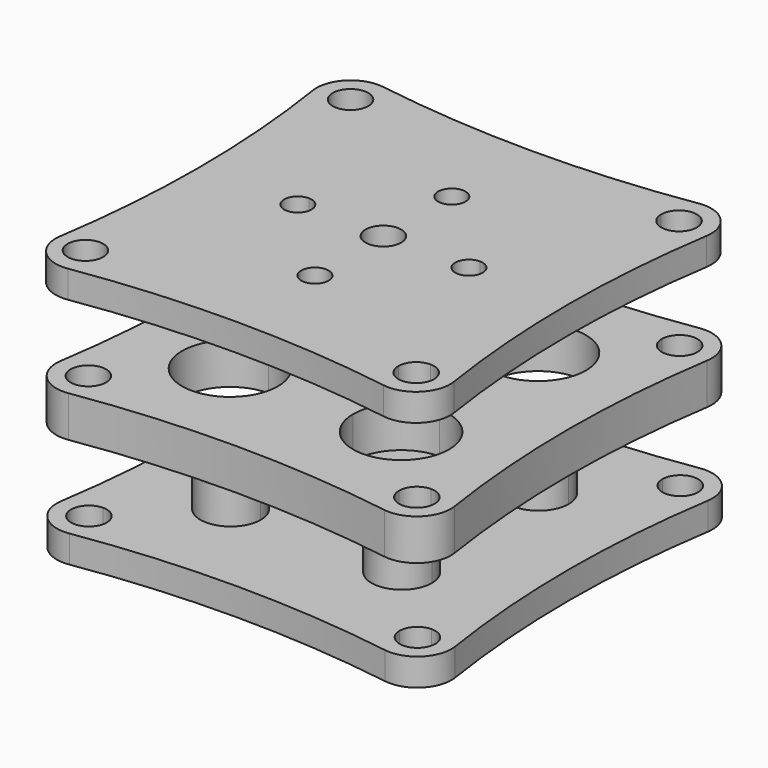
from build123d import *

# Parameters (mm, degrees)
F0_R       = 2.6
F1_DEPTH   = 4
F2_DEPTH   = 10
F3_R       = 2.6
F4_DEPTH   = 4
F5_R       = 2.6
F6_DEPTH   = 6
F7_R       = 5
F7_2_R     = 5
F8_R       = 5
F9_SIZE2   = 0.8
F9_SIZE    = 2.6
F9_2_SIZE2 = 0.8
F9_2_SIZE  = 2.6
F9_3_SIZE2 = 0.8
F9_3_SIZE  = 2.6
F9_4_SIZE2 = 0.8
F9_4_SIZE  = 2.6


with BuildPart() as f1:
    # F0 (on Top) → F1 (new body)
    with BuildSketch(Plane.XY):
        with BuildLine():
            ThreePointArc((-30, -30), (0, -27), (30, -30))
            ThreePointArc((30, -30), (27, 0), (30, 30))
            ThreePointArc((30, 30), (0, 27), (-30, 30))
            ThreePointArc((-30, 30), (-27, 0), (-30, -30))
        make_face()
        with BuildLine():
            ThreePointArc((26.6, 24), (25.8384776311, 22.1615223689), (24, 21.4))
            Line((24, 21.4), (24, -21.4))
            ThreePointArc((24, -21.4), (25.8384776311, -22.1615223689), (26.6, -24))
            ThreePointArc((26.6, -24), (24, -26.6), (21.4, -24))
            Line((21.4, -24), (-21.4, -24))
            ThreePointArc((-21.4, -24), (-25.8384776311, -25.8384776311), (-24, -21.4))
            Line((-24, -21.4), (-24, 21.4))
            ThreePointArc((-24, 21.4), (-25.8384776311, 25.8384776311), (-21.4, 24))
            Line((-21.4, 24), (21.4, 24))
            ThreePointArc((21.4, 24), (24, 26.6), (26.6, 24))
        make_face(mode=Mode.SUBTRACT)
        with BuildLine():
            Line((24, -21.4), (24, 21.4))
            ThreePointArc((24, 21.4), (22.1615223689, 22.1615223689), (21.4, 24))
            Line((21.4, 24), (-21.4, 24))
            ThreePointArc((-21.4, 24), (-22.1615223689, 22.1615223689), (-24, 21.4))
            Line((-24, 21.4), (-24, -21.4))
            ThreePointArc((-24, -21.4), (-22.1615223689, -22.1615223689), (-21.4, -24))
            Line((-21.4, -24), (21.4, -24))
            ThreePointArc((21.4, -24), (22.1615223689, -22.1615223689), (24, -21.4))
        make_face()
        with BuildLine():
            Line((5.5, -12.5), (-5.5, -12.5))
            ThreePointArc((-5.5, -12.5), (-17.4497474683, -17.4497474683), (-12.5, -5.5))
            Line((-12.5, -5.5), (-12.5, 5.5))
            ThreePointArc((-12.5, 5.5), (-17.4497474683, 17.4497474683), (-5.5, 12.5))
            Line((-5.5, 12.5), (5.5, 12.5))
            ThreePointArc((5.5, 12.5), (12.5, 19.5), (19.5, 12.5))
            ThreePointArc((19.5, 12.5), (17.4497474683, 7.5502525317), (12.5, 5.5))
            Line((12.5, 5.5), (12.5, -5.5))
            ThreePointArc((12.5, -5.5), (17.4497474683, -7.5502525317), (19.5, -12.5))
            ThreePointArc((19.5, -12.5), (12.5, -19.5), (5.5, -12.5))
        make_face(mode=Mode.SUBTRACT)
        with BuildLine():
            Line((12.5, 8.1), (12.5, 5.5))
            ThreePointArc((12.5, 5.5), (17.4497474683, 7.5502525317), (19.5, 12.5))
            ThreePointArc((19.5, 12.5), (12.5, 19.5), (5.5, 12.5))
            Line((5.5, 12.5), (8.1, 12.5))
            ThreePointArc((8.1, 12.5), (12.5, 16.9), (16.9, 12.5))
            ThreePointArc((16.9, 12.5), (15.6112698372, 9.3887301628), (12.5, 8.1))
        make_face()
        with BuildLine():
            Line((8.1, -12.5), (5.5, -12.5))
            ThreePointArc((5.5, -12.5), (12.5, -19.5), (19.5, -12.5))
            ThreePointArc((19.5, -12.5), (17.4497474683, -7.5502525317), (12.5, -5.5))
            Line((12.5, -5.5), (12.5, -8.1))
            ThreePointArc((12.5, -8.1), (15.6112698372, -9.3887301628), (16.9, -12.5))
            ThreePointArc((16.9, -12.5), (12.5, -16.9), (8.1, -12.5))
        make_face()
        with BuildLine():
            ThreePointArc((-12.5, -5.5), (-17.4497474683, -17.4497474683), (-5.5, -12.5))
            Line((-5.5, -12.5), (-8.1, -12.5))
            ThreePointArc((-8.1, -12.5), (-15.6112698372, -15.6112698372), (-12.5, -8.1))
            Line((-12.5, -8.1), (-12.5, -5.5))
        make_face()
        with BuildLine():
            ThreePointArc((-5.5, 12.5), (-17.4497474683, 17.4497474683), (-12.5, 5.5))
            Line((-12.5, 5.5), (-12.5, 8.1))
            ThreePointArc((-12.5, 8.1), (-15.6112698372, 15.6112698372), (-8.1, 12.5))
            Line((-8.1, 12.5), (-5.5, 12.5))
        make_face()
        with BuildLine():
            ThreePointArc((-12.5, -5.5), (-7.5502525317, -7.5502525317), (-5.5, -12.5))
            Line((-5.5, -12.5), (5.5, -12.5))
            ThreePointArc((5.5, -12.5), (7.5502525317, -7.5502525317), (12.5, -5.5))
            Line((12.5, -5.5), (12.5, 5.5))
            ThreePointArc((12.5, 5.5), (7.5502525317, 7.5502525317), (5.5, 12.5))
            Line((5.5, 12.5), (-5.5, 12.5))
            ThreePointArc((-5.5, 12.5), (-7.5502525317, 7.5502525317), (-12.5, 5.5))
            Line((-12.5, 5.5), (-12.5, -5.5))
        make_face()
        Circle(F0_R, mode=Mode.SUBTRACT)
        with BuildLine():
            ThreePointArc((12.5, -5.5), (7.5502525317, -7.5502525317), (5.5, -12.5))
            Line((5.5, -12.5), (8.1, -12.5))
            ThreePointArc((8.1, -12.5), (9.3887301628, -9.3887301628), (12.5, -8.1))
            Line((12.5, -8.1), (12.5, -5.5))
        make_face()
        with BuildLine():
            Line((-8.1, -12.5), (-5.5, -12.5))
            ThreePointArc((-5.5, -12.5), (-7.5502525317, -7.5502525317), (-12.5, -5.5))
            Line((-12.5, -5.5), (-12.5, -8.1))
            ThreePointArc((-12.5, -8.1), (-9.3887301628, -9.3887301628), (-8.1, -12.5))
        make_face()
        with BuildLine():
            ThreePointArc((5.5, 12.5), (7.5502525317, 7.5502525317), (12.5, 5.5))
            Line((12.5, 5.5), (12.5, 8.1))
            ThreePointArc((12.5, 8.1), (9.3887301628, 9.3887301628), (8.1, 12.5))
            Line((8.1, 12.5), (5.5, 12.5))
        make_face()
        with BuildLine():
            Line((-12.5, 8.1), (-12.5, 5.5))
            ThreePointArc((-12.5, 5.5), (-7.5502525317, 7.5502525317), (-5.5, 12.5))
            Line((-5.5, 12.5), (-8.1, 12.5))
            ThreePointArc((-8.1, 12.5), (-9.3887301628, 9.3887301628), (-12.5, 8.1))
        make_face()
    extrude(amount=F1_DEPTH)

    # F0 (on Top) → F2 (join)
    with BuildSketch(Plane.XY):
        with BuildLine():
            Line((-12.5, 12.5), (-12.5, 8.1))
            ThreePointArc((-12.5, 8.1), (-9.3887301628, 9.3887301628), (-8.1, 12.5))
            Line((-8.1, 12.5), (-12.5, 12.5))
        make_face()
        with BuildLine():
            ThreePointArc((-8.1, 12.5), (-15.6112698372, 15.6112698372), (-12.5, 8.1))
            Line((-12.5, 8.1), (-12.5, 12.5))
            Line((-12.5, 12.5), (-8.1, 12.5))
        make_face()
        with BuildLine():
            ThreePointArc((8.1, 12.5), (9.3887301628, 9.3887301628), (12.5, 8.1))
            Line((12.5, 8.1), (12.5, 12.5))
            Line((12.5, 12.5), (8.1, 12.5))
        make_face()
        with BuildLine():
            Line((12.5, 12.5), (12.5, 8.1))
            ThreePointArc((12.5, 8.1), (15.6112698372, 9.3887301628), (16.9, 12.5))
            ThreePointArc((16.9, 12.5), (12.5, 16.9), (8.1, 12.5))
            Line((8.1, 12.5), (12.5, 12.5))
        make_face()
        with BuildLine():
            Line((12.5, -12.5), (8.1, -12.5))
            ThreePointArc((8.1, -12.5), (12.5, -16.9), (16.9, -12.5))
            ThreePointArc((16.9, -12.5), (15.6112698372, -9.3887301628), (12.5, -8.1))
            Line((12.5, -8.1), (12.5, -12.5))
        make_face()
        with BuildLine():
            ThreePointArc((12.5, -8.1), (9.3887301628, -9.3887301628), (8.1, -12.5))
            Line((8.1, -12.5), (12.5, -12.5))
            Line((12.5, -12.5), (12.5, -8.1))
        make_face()
        with BuildLine():
            Line((-12.5, -12.5), (-8.1, -12.5))
            ThreePointArc((-8.1, -12.5), (-9.3887301628, -9.3887301628), (-12.5, -8.1))
            Line((-12.5, -8.1), (-12.5, -12.5))
        make_face()
        with BuildLine():
            ThreePointArc((-12.5, -8.1), (-15.6112698372, -15.6112698372), (-8.1, -12.5))
            Line((-8.1, -12.5), (-12.5, -12.5))
            Line((-12.5, -12.5), (-12.5, -8.1))
        make_face()
    extrude(amount=F2_DEPTH)

    # F7
    f7_edges = [f1.edges().sort_by_distance(p)[0] for p in [
        (30, -30, 2),
        (-30, -30, 2),
        (30, 30, 2),
        (-30, 30, 2),
    ]]
    fillet(f7_edges, radius=F7_R)

    # F9
    f9_edges = [f1.edges().sort_by_distance(p)[0] for p in [
        (-16.9, 12.5, 10),
    ]]
    f9_side = f1.faces().sort_by_distance((-12.5, 12.5, 10))[0]
    chamfer(f9_edges, length=F9_SIZE, length2=F9_SIZE2, reference=f9_side)

    # F9#2
    f9_2_edges = [f1.edges().sort_by_distance(p)[0] for p in [
        (-12.5, -16.9, 10),
    ]]
    f9_2_side = f1.faces().sort_by_distance((-12.5, -12.5, 10))[0]
    chamfer(f9_2_edges, length=F9_2_SIZE, length2=F9_2_SIZE2, reference=f9_2_side)

    # F9#3
    f9_3_edges = [f1.edges().sort_by_distance(p)[0] for p in [
        (12.5, -16.9, 10),
    ]]
    f9_3_side = f1.faces().sort_by_distance((12.5, -12.5, 10))[0]
    chamfer(f9_3_edges, length=F9_3_SIZE, length2=F9_3_SIZE2, reference=f9_3_side)

    # F9#4
    f9_4_edges = [f1.edges().sort_by_distance(p)[0] for p in [
        (12.5, 16.9, 10),
    ]]
    f9_4_side = f1.faces().sort_by_distance((12.5, 12.5, 10))[0]
    chamfer(f9_4_edges, length=F9_4_SIZE, length2=F9_4_SIZE2, reference=f9_4_side)


with BuildPart() as f4:
    # F3 (on Top) → F4 (new body)
    with BuildSketch(Plane.XY):
        with BuildLine():
            ThreePointArc((38.7207238793, -30), (68.7207238793, -27), (98.7207238793, -30))
            ThreePointArc((98.7207238793, -30), (95.7207238793, 0), (98.7207238793, 30))
            ThreePointArc((98.7207238793, 30), (68.7207238793, 27), (38.7207238793, 30))
            ThreePointArc((38.7207238793, 30), (41.7207238793, 0), (38.7207238793, -30))
        make_face()
        with Locations((44.3896008134, -24)):
            Circle(F3_R, mode=Mode.SUBTRACT)
        with BuildLine():
            ThreePointArc((90.1207238793, -24), (90.8822462482, -22.1615223689), (92.7207238793, -21.4))
            ThreePointArc((92.7207238793, -21.4), (94.5592015104, -22.1615223689), (95.3207238793, -24))
            ThreePointArc((95.3207238793, -24), (92.7207238793, -26.6), (90.1207238793, -24))
        make_face(mode=Mode.SUBTRACT)
        with Locations((44.7207238793, 24)):
            Circle(F3_R, mode=Mode.SUBTRACT)
        with BuildLine():
            Line((66.7207238793, -12.5), (63.2207238793, -12.5))
            ThreePointArc((63.2207238793, -12.5), (51.270976411, -17.4497474683), (56.2207238793, -5.5))
            Line((56.2207238793, -5.5), (56.2207238793, -2))
            ThreePointArc((56.2207238793, -2), (54.2207238793, 0), (56.2207238793, 2))
            Line((56.2207238793, 2), (56.2207238793, 5.5))
            ThreePointArc((56.2207238793, 5.5), (51.270976411, 17.4497474683), (63.2207238793, 12.5))
            Line((63.2207238793, 12.5), (66.7207238793, 12.5))
            ThreePointArc((66.7207238793, 12.5), (68.7207238793, 14.5), (70.7207238793, 12.5))
            Line((70.7207238793, 12.5), (74.2207238793, 12.5))
            ThreePointArc((74.2207238793, 12.5), (81.2207238793, 19.5), (88.2207238793, 12.5))
            ThreePointArc((88.2207238793, 12.5), (86.1704713476, 7.5502525317), (81.2207238793, 5.5))
            Line((81.2207238793, 5.5), (81.2207238793, 2))
            ThreePointArc((81.2207238793, 2), (82.6349374417, 1.4142135624), (83.2207238793, 0))
            ThreePointArc((83.2207238793, 0), (82.6349374417, -1.4142135624), (81.2207238793, -2))
            Line((81.2207238793, -2), (81.2207238793, -5.5))
            ThreePointArc((81.2207238793, -5.5), (86.1704713476, -7.5502525317), (88.2207238793, -12.5))
            ThreePointArc((88.2207238793, -12.5), (81.2207238793, -19.5), (74.2207238793, -12.5))
            Line((74.2207238793, -12.5), (70.7207238793, -12.5))
            ThreePointArc((70.7207238793, -12.5), (68.7207238793, -14.5), (66.7207238793, -12.5))
        make_face(mode=Mode.SUBTRACT)
        with BuildLine():
            ThreePointArc((95.3207238793, 24), (94.5592015104, 22.1615223689), (92.7207238793, 21.4))
            ThreePointArc((92.7207238793, 21.4), (90.8822462482, 22.1615223689), (90.1207238793, 24))
            ThreePointArc((90.1207238793, 24), (92.7207238793, 26.6), (95.3207238793, 24))
        make_face(mode=Mode.SUBTRACT)
        with BuildLine():
            ThreePointArc((56.2207238793, -5.5), (61.1704713476, -7.5502525317), (63.2207238793, -12.5))
            Line((63.2207238793, -12.5), (66.7207238793, -12.5))
            ThreePointArc((66.7207238793, -12.5), (68.7207238793, -10.5), (70.7207238793, -12.5))
            Line((70.7207238793, -12.5), (74.2207238793, -12.5))
            ThreePointArc((74.2207238793, -12.5), (76.270976411, -7.5502525317), (81.2207238793, -5.5))
            Line((81.2207238793, -5.5), (81.2207238793, -2))
            ThreePointArc((81.2207238793, -2), (79.2207238793, 0), (81.2207238793, 2))
            Line((81.2207238793, 2), (81.2207238793, 5.5))
            ThreePointArc((81.2207238793, 5.5), (76.270976411, 7.5502525317), (74.2207238793, 12.5))
            Line((74.2207238793, 12.5), (70.7207238793, 12.5))
            ThreePointArc((70.7207238793, 12.5), (68.7207238793, 10.5), (66.7207238793, 12.5))
            Line((66.7207238793, 12.5), (63.2207238793, 12.5))
            ThreePointArc((63.2207238793, 12.5), (61.1704713476, 7.5502525317), (56.2207238793, 5.5))
            Line((56.2207238793, 5.5), (56.2207238793, 2))
            ThreePointArc((56.2207238793, 2), (57.6349374417, 1.4142135624), (58.2207238793, 0))
            ThreePointArc((58.2207238793, 0), (57.6349374417, -1.4142135624), (56.2207238793, -2))
            Line((56.2207238793, -2), (56.2207238793, -5.5))
        make_face()
        with Locations((68.7207238793, 0)):
            Circle(F3_R, mode=Mode.SUBTRACT)
        with BuildLine():
            ThreePointArc((63.2207238793, 12.5), (51.270976411, 17.4497474683), (56.2207238793, 5.5))
            Line((56.2207238793, 5.5), (56.2207238793, 7.95))
            ThreePointArc((56.2207238793, 7.95), (53.0033880249, 15.7173358544), (60.7707238793, 12.5))
            Line((60.7707238793, 12.5), (63.2207238793, 12.5))
        make_face()
        with BuildLine():
            Line((56.2207238793, 7.95), (56.2207238793, 5.5))
            ThreePointArc((56.2207238793, 5.5), (61.1704713476, 7.5502525317), (63.2207238793, 12.5))
            Line((63.2207238793, 12.5), (60.7707238793, 12.5))
            ThreePointArc((60.7707238793, 12.5), (59.4380597337, 9.2826641456), (56.2207238793, 7.95))
        make_face()
        with BuildLine():
            ThreePointArc((56.2207238793, -5.5), (51.270976411, -17.4497474683), (63.2207238793, -12.5))
            Line((63.2207238793, -12.5), (60.7707238793, -12.5))
            ThreePointArc((60.7707238793, -12.5), (53.0033880249, -15.7173358544), (56.2207238793, -7.95))
            Line((56.2207238793, -7.95), (56.2207238793, -5.5))
        make_face()
        with BuildLine():
            Line((60.7707238793, -12.5), (63.2207238793, -12.5))
            ThreePointArc((63.2207238793, -12.5), (61.1704713476, -7.5502525317), (56.2207238793, -5.5))
            Line((56.2207238793, -5.5), (56.2207238793, -7.95))
            ThreePointArc((56.2207238793, -7.95), (59.4380597337, -9.2826641456), (60.7707238793, -12.5))
        make_face()
        with BuildLine():
            ThreePointArc((74.2207238793, 12.5), (76.270976411, 7.5502525317), (81.2207238793, 5.5))
            Line((81.2207238793, 5.5), (81.2207238793, 7.95))
            ThreePointArc((81.2207238793, 7.95), (78.0033880249, 9.2826641456), (76.6707238793, 12.5))
            Line((76.6707238793, 12.5), (74.2207238793, 12.5))
        make_face()
        with BuildLine():
            Line((81.2207238793, 7.95), (81.2207238793, 5.5))
            ThreePointArc((81.2207238793, 5.5), (86.1704713476, 7.5502525317), (88.2207238793, 12.5))
            ThreePointArc((88.2207238793, 12.5), (81.2207238793, 19.5), (74.2207238793, 12.5))
            Line((74.2207238793, 12.5), (76.6707238793, 12.5))
            ThreePointArc((76.6707238793, 12.5), (81.2207238793, 17.05), (85.7707238793, 12.5))
            ThreePointArc((85.7707238793, 12.5), (84.4380597337, 9.2826641456), (81.2207238793, 7.95))
        make_face()
        with BuildLine():
            Line((76.6707238793, -12.5), (74.2207238793, -12.5))
            ThreePointArc((74.2207238793, -12.5), (81.2207238793, -19.5), (88.2207238793, -12.5))
            ThreePointArc((88.2207238793, -12.5), (86.1704713476, -7.5502525317), (81.2207238793, -5.5))
            Line((81.2207238793, -5.5), (81.2207238793, -7.95))
            ThreePointArc((81.2207238793, -7.95), (84.4380597337, -9.2826641456), (85.7707238793, -12.5))
            ThreePointArc((85.7707238793, -12.5), (81.2207238793, -17.05), (76.6707238793, -12.5))
        make_face()
        with BuildLine():
            ThreePointArc((81.2207238793, -5.5), (76.270976411, -7.5502525317), (74.2207238793, -12.5))
            Line((74.2207238793, -12.5), (76.6707238793, -12.5))
            ThreePointArc((76.6707238793, -12.5), (78.0033880249, -9.2826641456), (81.2207238793, -7.95))
            Line((81.2207238793, -7.95), (81.2207238793, -5.5))
        make_face()
        with BuildLine():
            Line((81.2207238793, 12.5), (81.2207238793, 7.95))
            ThreePointArc((81.2207238793, 7.95), (84.4380597337, 9.2826641456), (85.7707238793, 12.5))
            ThreePointArc((85.7707238793, 12.5), (81.2207238793, 17.05), (76.6707238793, 12.5))
            Line((76.6707238793, 12.5), (81.2207238793, 12.5))
        make_face()
        with BuildLine():
            ThreePointArc((76.6707238793, 12.5), (78.0033880249, 9.2826641456), (81.2207238793, 7.95))
            Line((81.2207238793, 7.95), (81.2207238793, 12.5))
            Line((81.2207238793, 12.5), (76.6707238793, 12.5))
        make_face()
        with BuildLine():
            ThreePointArc((60.7707238793, 12.5), (53.0033880249, 15.7173358544), (56.2207238793, 7.95))
            Line((56.2207238793, 7.95), (56.2207238793, 12.5))
            Line((56.2207238793, 12.5), (60.7707238793, 12.5))
        make_face()
        with BuildLine():
            Line((56.2207238793, 12.5), (56.2207238793, 7.95))
            ThreePointArc((56.2207238793, 7.95), (59.4380597337, 9.2826641456), (60.7707238793, 12.5))
            Line((60.7707238793, 12.5), (56.2207238793, 12.5))
        make_face()
        with BuildLine():
            Line((56.2207238793, -12.5), (60.7707238793, -12.5))
            ThreePointArc((60.7707238793, -12.5), (59.4380597337, -9.2826641456), (56.2207238793, -7.95))
            Line((56.2207238793, -7.95), (56.2207238793, -12.5))
        make_face()
        with BuildLine():
            ThreePointArc((56.2207238793, -7.95), (53.0033880249, -15.7173358544), (60.7707238793, -12.5))
            Line((60.7707238793, -12.5), (56.2207238793, -12.5))
            Line((56.2207238793, -12.5), (56.2207238793, -7.95))
        make_face()
        with BuildLine():
            Line((81.2207238793, -12.5), (76.6707238793, -12.5))
            ThreePointArc((76.6707238793, -12.5), (81.2207238793, -17.05), (85.7707238793, -12.5))
            ThreePointArc((85.7707238793, -12.5), (84.4380597337, -9.2826641456), (81.2207238793, -7.95))
            Line((81.2207238793, -7.95), (81.2207238793, -12.5))
        make_face()
        with BuildLine():
            ThreePointArc((81.2207238793, -7.95), (78.0033880249, -9.2826641456), (76.6707238793, -12.5))
            Line((76.6707238793, -12.5), (81.2207238793, -12.5))
            Line((81.2207238793, -12.5), (81.2207238793, -7.95))
        make_face()
    extrude(amount=F4_DEPTH)

    # F7#2
    f7_2_edges = [f4.edges().sort_by_distance(p)[0] for p in [
        (38.720724, -30, 2),
        (98.720724, -30, 2),
        (98.720724, 30, 2),
        (38.720724, 30, 2),
    ]]
    fillet(f7_2_edges, radius=F7_2_R)


with BuildPart() as f6:
    # F5 (on Top) → F6 (new body)
    with BuildSketch(Plane.XY):
        with BuildLine():
            ThreePointArc((-112.8876238966, -30), (-82.8876238966, -27), (-52.8876238966, -30))
            ThreePointArc((-52.8876238966, -30), (-55.8876238966, 0), (-52.8876238966, 30))
            ThreePointArc((-52.8876238966, 30), (-82.8876238966, 27), (-112.8876238966, 30))
            ThreePointArc((-112.8876238966, 30), (-109.8876238966, 0), (-112.8876238966, -30))
        make_face()
        with Locations((-106.8876238966, -24)):
            Circle(F5_R, mode=Mode.SUBTRACT)
        with BuildLine():
            ThreePointArc((-61.4876238966, -24), (-60.7261015277, -22.1615223689), (-58.8876238966, -21.4))
            ThreePointArc((-58.8876238966, -21.4), (-57.0491462655, -22.1615223689), (-56.2876238966, -24))
            ThreePointArc((-56.2876238966, -24), (-58.8876238966, -26.6), (-61.4876238966, -24))
        make_face(mode=Mode.SUBTRACT)
        with BuildLine():
            Line((-77.3876238966, -12.5), (-88.3876238966, -12.5))
            ThreePointArc((-88.3876238966, -12.5), (-100.3373713649, -17.4497474683), (-95.3876238966, -5.5))
            Line((-95.3876238966, -5.5), (-95.3876238966, 5.5))
            ThreePointArc((-95.3876238966, 5.5), (-100.3373713649, 17.4497474683), (-88.3876238966, 12.5))
            Line((-88.3876238966, 12.5), (-77.3876238966, 12.5))
            ThreePointArc((-77.3876238966, 12.5), (-70.3876238966, 19.5), (-63.3876238966, 12.5))
            ThreePointArc((-63.3876238966, 12.5), (-65.4378764283, 7.5502525317), (-70.3876238966, 5.5))
            Line((-70.3876238966, 5.5), (-70.3876238966, -5.5))
            ThreePointArc((-70.3876238966, -5.5), (-65.4378764283, -7.5502525317), (-63.3876238966, -12.5))
            ThreePointArc((-63.3876238966, -12.5), (-70.3876238966, -19.5), (-77.3876238966, -12.5))
        make_face(mode=Mode.SUBTRACT)
        with Locations((-106.8876238966, 24)):
            Circle(F5_R, mode=Mode.SUBTRACT)
        with BuildLine():
            ThreePointArc((-56.2876238966, 24), (-57.0491462655, 22.1615223689), (-58.8876238966, 21.4))
            ThreePointArc((-58.8876238966, 21.4), (-60.7261015277, 22.1615223689), (-61.4876238966, 24))
            ThreePointArc((-61.4876238966, 24), (-58.8876238966, 26.6), (-56.2876238966, 24))
        make_face(mode=Mode.SUBTRACT)
        with BuildLine():
            ThreePointArc((-95.3876238966, -5.5), (-90.4378764283, -7.5502525317), (-88.3876238966, -12.5))
            Line((-88.3876238966, -12.5), (-77.3876238966, -12.5))
            ThreePointArc((-77.3876238966, -12.5), (-75.3373713649, -7.5502525317), (-70.3876238966, -5.5))
            Line((-70.3876238966, -5.5), (-70.3876238966, 5.5))
            ThreePointArc((-70.3876238966, 5.5), (-75.3373713649, 7.5502525317), (-77.3876238966, 12.5))
            Line((-77.3876238966, 12.5), (-88.3876238966, 12.5))
            ThreePointArc((-88.3876238966, 12.5), (-90.4378764283, 7.5502525317), (-95.3876238966, 5.5))
            Line((-95.3876238966, 5.5), (-95.3876238966, -5.5))
        make_face()
        with Locations((-82.8876238966, 0)):
            Circle(F5_R, mode=Mode.SUBTRACT)
    extrude(amount=F6_DEPTH)

    # F8
    f8_edges = [f6.edges().sort_by_distance(p)[0] for p in [
        (-112.887624, -30, 3),
        (-52.887624, -30, 3),
        (-52.887624, 30, 3),
        (-112.887624, 30, 3),
    ]]
    fillet(f8_edges, radius=F8_R)


with BuildPart() as f4_1:
    # F10: moved
    add(f4.part.moved(Location((-68.9, 0, 34))))


with BuildPart() as f6_1:
    # F11: moved
    add(f6.part.moved(Location((82.8, 0, 16))))


solid = Compound([f1.part, f4_1.part, f6_1.part])
